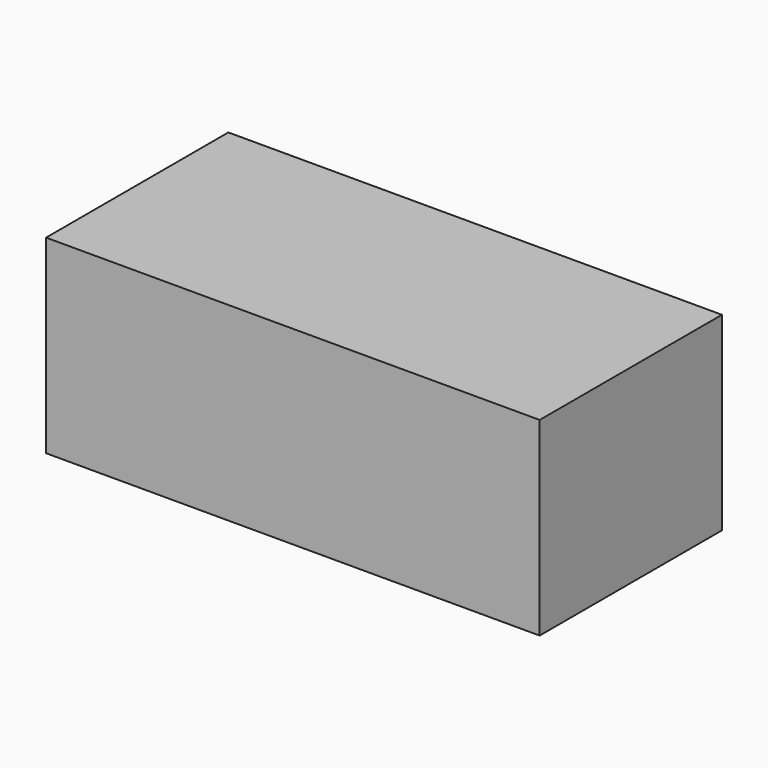
from build123d import *

# Parameters (mm, degrees)
SKETCH_W      = 130
SKETCH_H      = 60
EXTRUDE_DEPTH = 50


with BuildPart() as part:
    # Sketch → Extrude (new body)
    with BuildSketch(Plane.XY):
        Rectangle(SKETCH_W, SKETCH_H)
    extrude(amount=EXTRUDE_DEPTH)


solid = part.part
